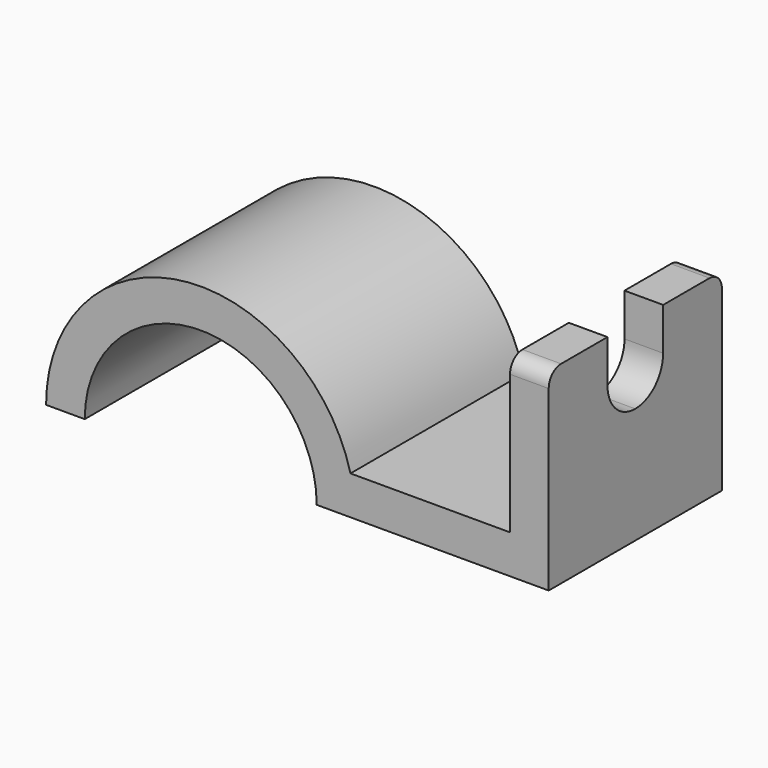
from build123d import *

# Parameters (mm, degrees)
F1_DEPTH = 14
F3_DEPTH = 5
F4_R     = 2


with BuildPart() as f1:
    # F0 (on Front) → F1 (new body, symmetric)
    with BuildSketch(Plane.XZ):
        with BuildLine():
            ThreePointArc((-15, 0), (0, 15), (15, 0))
            Line((15, 0), (45, 0))
            Line((45, 0), (45, 25))
            Line((45, 25), (40, 25))
            Line((40, 25), (40, 5))
            Line((40, 5), (19.364916731, 5))
            ThreePointArc((19.364916731, 5), (-2.5200858497, 19.8405939253), (-20, 0))
            Line((-20, 0), (-15, 0))
        make_face()
    extrude(amount=F1_DEPTH, both=True)

    # F2 (on face) → F3 (cut, through all)
    with BuildSketch(Plane.YZ.offset(45)):
        with BuildLine():
            ThreePointArc((-4.5, 19.5), (-3.1819805217, 16.318019491), (-1.79e-08, 15))
            ThreePointArc((-1.79e-08, 15), (3.181980509, 16.3180194783), (4.5, 19.5))
            Line((4.5, 19.5), (4.5, 25))
            Line((4.5, 25), (-4.5, 25))
            Line((-4.5, 25), (-4.5, 19.5))
        make_face()
    extrude(amount=-F3_DEPTH, mode=Mode.SUBTRACT)

    # F4
    f4_edges = [f1.edges().sort_by_distance(p)[0] for p in [
        (42.5, -14, 25),
        (42.5, 14, 25),
    ]]
    fillet(f4_edges, radius=F4_R)


solid = f1.part
